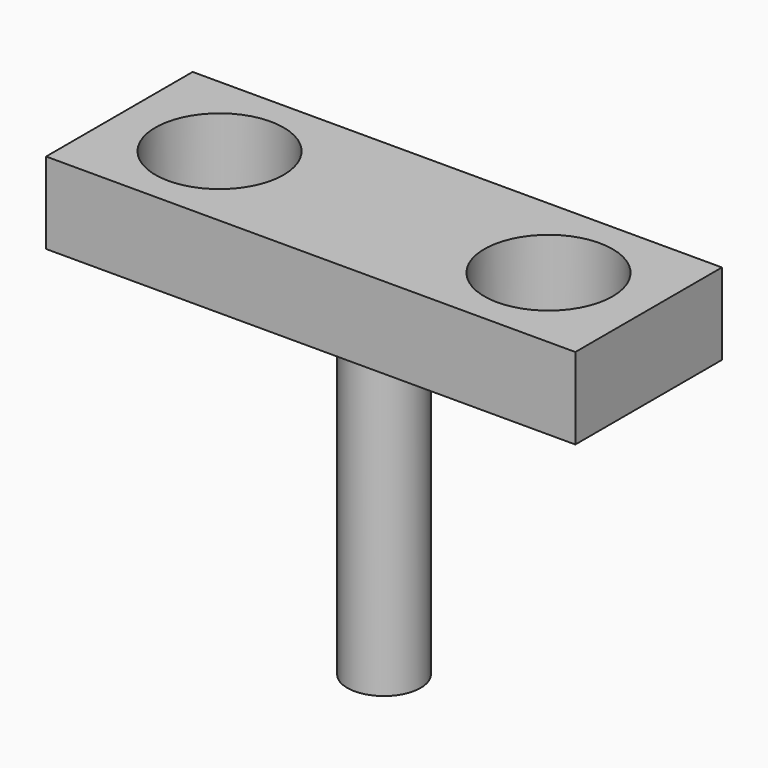
from build123d import *

# Parameters (mm, degrees)
F0_W     = 33.02
F0_H     = 11.43
F0_R     = 4
F1_DEPTH = 5.08
F2_R     = 2.286
F3_DEPTH = 20.32


with BuildPart() as f1:
    # F0 (on Top) → F1 (new body)
    with BuildSketch(Plane.XY):
        Rectangle(F0_W, F0_H)
        with Locations((-10.2616, 0)):
            Circle(F0_R, mode=Mode.SUBTRACT)
        with Locations((10.2616, 0)):
            Circle(F0_R, mode=Mode.SUBTRACT)
    extrude(amount=F1_DEPTH)

    # F2 (on face) → F3 (join)
    with BuildSketch(Plane(origin=(0, 0, 0), x_dir=(1, 0, 0), z_dir=(0, 0, -1))):
        Circle(F2_R)
    extrude(amount=F3_DEPTH)


solid = f1.part
